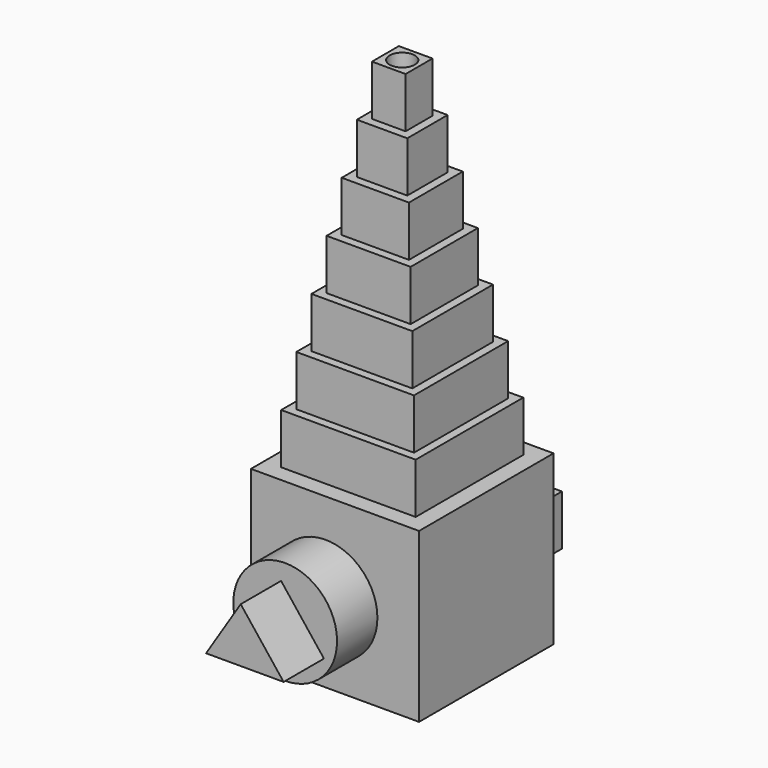
from build123d import *

# Parameters (mm, degrees)
F0_W      = 254
F0_H      = 254
F1_DEPTH  = 254
F3_W      = 203.2
F3_H      = 203.2
F4_DEPTH  = 76.2
F5_W      = 177.8
F5_H      = 177.8
F6_DEPTH  = 76.2
F7_W      = 152.4
F7_H      = 152.4
F8_DEPTH  = 76.2
F9_W      = 127
F9_H      = 127
F10_DEPTH = 76.2
F11_W     = 101.6
F11_H     = 101.6
F12_DEPTH = 76.2
F13_W     = 76.2
F13_H     = 76.2
F14_DEPTH = 76.2
F15_W     = 50.8
F15_H     = 50.8
F16_DEPTH = 76.2
F18_D     = 38.1
F2_R      = 78.384175
F19_DEPTH = 76.2
F21_DEPTH = 76.2
F22_W     = 177.8
F22_H     = 76.2
F23_DEPTH = 63.5
F25_W     = 152.4
F25_H     = 38.1
F26_DEPTH = 44.45


with BuildPart() as f1:
    # F0 (on Front) → F1 (new body)
    with BuildSketch(Plane.XZ):
        with Locations((32.72583, 38.734609)):
            Rectangle(F0_W, F0_H)
    extrude(amount=F1_DEPTH)

    # F3 (on face) → F4 (join)
    with BuildSketch(Plane.XY.offset(165.734609)):
        with Locations((32.72583, -127)):
            Rectangle(F3_W, F3_H)
    extrude(amount=F4_DEPTH)

    # F5 (on face) → F6 (join)
    with BuildSketch(Plane.XY.offset(241.934609)):
        with Locations((32.72583, -127)):
            Rectangle(F5_W, F5_H)
    extrude(amount=F6_DEPTH)

    # F7 (on face) → F8 (join)
    with BuildSketch(Plane.XY.offset(318.134609)):
        with Locations((32.72583, -127)):
            Rectangle(F7_W, F7_H)
    extrude(amount=F8_DEPTH)

    # F9 (on face) → F10 (join)
    with BuildSketch(Plane.XY.offset(394.334609)):
        with Locations((32.72583, -127)):
            Rectangle(F9_W, F9_H)
    extrude(amount=F10_DEPTH)

    # F11 (on face) → F12 (join)
    with BuildSketch(Plane.XY.offset(470.534609)):
        with Locations((32.72583, -127)):
            Rectangle(F11_W, F11_H)
    extrude(amount=F12_DEPTH)

    # F13 (on face) → F14 (join)
    with BuildSketch(Plane.XY.offset(546.734609)):
        with Locations((32.72583, -127)):
            Rectangle(F13_W, F13_H)
    extrude(amount=F14_DEPTH)

    # F15 (on face) → F16 (join)
    with BuildSketch(Plane.XY.offset(622.934609)):
        with Locations((32.725834, -127)):
            Rectangle(F15_W, F15_H)
    extrude(amount=F16_DEPTH)

    # F18 (through all)
    with Locations(Plane.XY.offset(699.134609)):
        with Locations((32.725834, -127)):
            Hole(F18_D / 2)

    # F2 (on face) → F19 (join)
    with BuildSketch(Plane.XZ.offset(254)):
        with Locations((18.441331, 29.720267)):
            Circle(F2_R)
    extrude(amount=F19_DEPTH)

    # F20 (on face) → F21 (join)
    with BuildSketch(Plane.XZ.offset(330.2)):
        Polygon((77.017064, 0), (12.2257, 82.338598), (-40.134403, 0), align=None)
    extrude(amount=F21_DEPTH)

    # F22 (on face) → F23 (join)
    with BuildSketch(Plane(origin=(0, 0, 0), x_dir=(-1, 0, 0), z_dir=(0, 1, 0))):
        with Locations((-32.72583, 38.734609)):
            Rectangle(F22_W, F22_H)
    extrude(amount=F23_DEPTH)

    # F25 (on face) → F26 (join)
    with BuildSketch(Plane.XY.offset(76.834609)):
        with Locations((32.72583, 31.75)):
            Rectangle(F25_W, F25_H)
    extrude(amount=F26_DEPTH)


solid = f1.part
